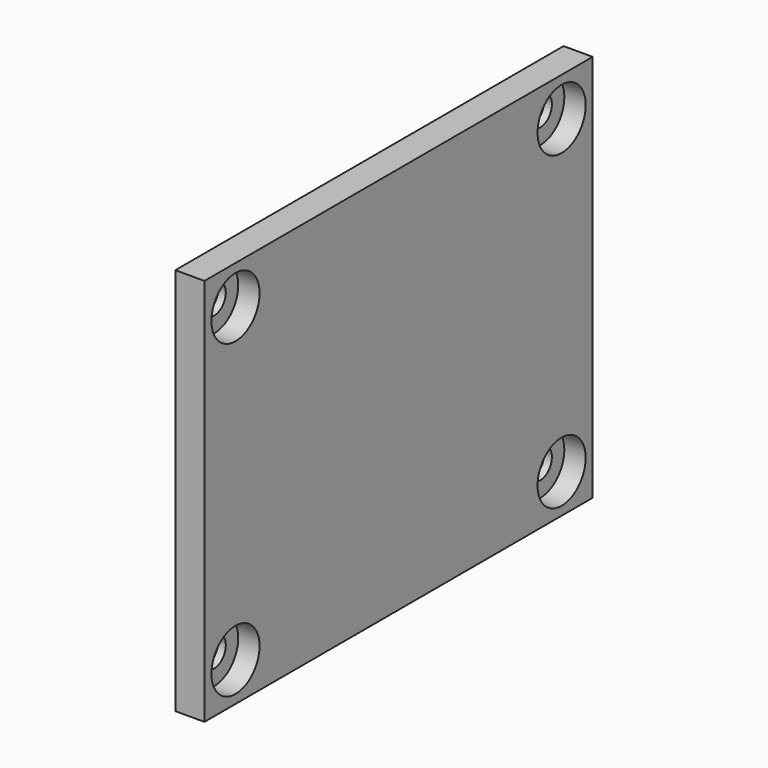
from build123d import *

# Parameters (mm, degrees)
F0_W     = 50
F0_H     = 40
F1_DEPTH = 6
F2_W     = 50
F2_H     = 40
F2_W_2   = 38
F2_H_2   = 28
F3_DEPTH = 3
F4_R     = 1.5
F5_DEPTH = 6.001
F6_R     = 3.1
F7_DEPTH = 2.2


with BuildPart() as f1:
    # F0 (on Right) → F1 (new body)
    with BuildSketch(Plane.YZ):
        with Locations((26.149253, 20)):
            Rectangle(F0_W, F0_H)
    extrude(amount=F1_DEPTH)

    # F2 (on face) → F3 (cut)
    with BuildSketch(Plane(origin=(0, 0, 0), x_dir=(0, -1, 0), z_dir=(-1, 0, 0))):
        with Locations((-26.149253, 20)):
            Rectangle(F2_W, F2_H)
        with Locations((-26.149253, 20)):
            Rectangle(F2_W_2, F2_H_2, mode=Mode.SUBTRACT)
    extrude(amount=-F3_DEPTH, mode=Mode.SUBTRACT)

    # F4 (on face) → F5 (cut, through all)
    with BuildSketch(Plane.YZ.offset(6)):
        with Locations((47.149253, 36)):
            Circle(F4_R)
        with Locations((5.149253, 36)):
            Circle(F4_R)
        with Locations((5.149253, 4)):
            Circle(F4_R)
        with Locations((47.149253, 4)):
            Circle(F4_R)
    extrude(amount=-F5_DEPTH, mode=Mode.SUBTRACT)

    # F6 (on face) → F7 (cut)
    with BuildSketch(Plane.YZ.offset(6)):
        with Locations((5.149253, 36)):
            Circle(F6_R)
        with Locations((47.149253, 36)):
            Circle(F6_R)
        with Locations((47.149253, 4)):
            Circle(F6_R)
        with Locations((5.149253, 4)):
            Circle(F6_R)
    extrude(amount=-F7_DEPTH, mode=Mode.SUBTRACT)


with BuildPart() as f8_1:
    # F8: copy of F1
    add(f1.part)


solid = Compound([f1.part, f8_1.part])
